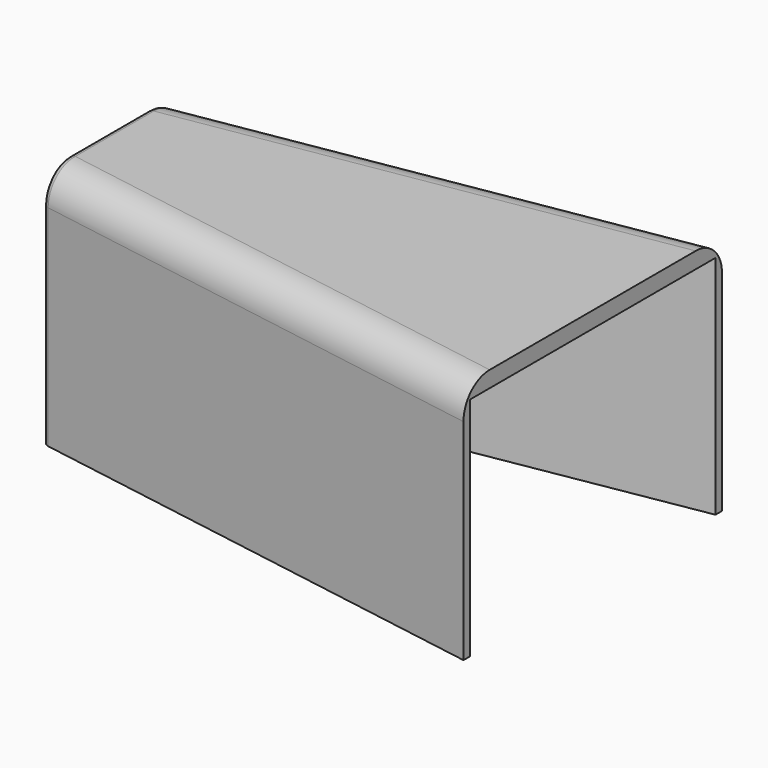
from build123d import *

# Parameters (mm, degrees)
F1_DEPTH = 190.5
F2_R     = 25.4
F3_R     = 5.08
F5_DEPTH = 177.8


with BuildPart() as f1:
    # F0 (on Top) → F1 (new body)
    with BuildSketch(Plane.XY):
        Polygon((0, 0), (0, 127), (-381, 63.5), (-381, 0), align=None)
        Polygon((0, -127), (0, 0), (-381, 0), (-381, -63.5), align=None)
    extrude(amount=F1_DEPTH)

    # F2
    f2_edges = [f1.edges().sort_by_distance(p)[0] for p in [
        (-190.5, -95.25, 190.5),
        (-190.5, 95.25, 190.5),
    ]]
    fillet(f2_edges, radius=F2_R)

    # F3
    f3_edges = [f1.edges().sort_by_distance(p)[0] for p in [
        (-381, 0, 190.5),
    ]]
    fillet(f3_edges, radius=F3_R)

    # F4 (on Top) → F5 (cut)
    with BuildSketch(Plane.XY):
        Polygon((-374.832104, -57.15), (0, -120.65), (0, 120.65), (-374.832104, 57.15), (-374.832104, 0), align=None)
    extrude(amount=F5_DEPTH, mode=Mode.SUBTRACT)


solid = f1.part
